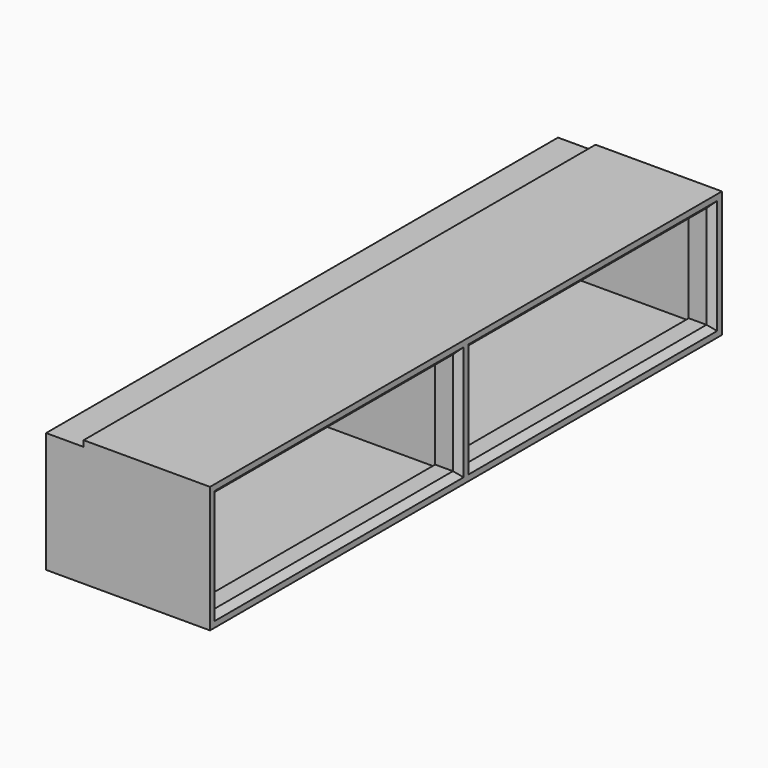
from build123d import *

# Parameters (mm, degrees)
F0_W     = 2057.4
F0_H     = 406.4
F0_W_2   = 1000.125
F0_H_2   = 368.3
F1_DEPTH = 508
F2_W     = 101.6
F2_H     = 19.05
F3_DEPTH = 2057.401
F4_W     = 2057.4
F4_H     = 387.35
F5_DEPTH = 19.05
F6_W     = 152.4
F6_H     = 1009.65
F6_H_2   = 1000.125
F7_DEPTH = 19.05
F8_W     = 1000.125
F8_H     = 368.3
F8_W_2   = 962.025
F8_H_2   = 330.2
F9_DEPTH = 76.2
F10_SIZE = 19.05


with BuildPart() as f1:
    # F0 (on Right) → F1 (new body)
    with BuildSketch(Plane.YZ):
        Rectangle(F0_W, F0_H)
        with Locations((-509.5875, 0)):
            Rectangle(F0_W_2, F0_H_2, mode=Mode.SUBTRACT)
        with Locations((509.5875, 0)):
            Rectangle(F0_W_2, F0_H_2, mode=Mode.SUBTRACT)
    extrude(amount=-F1_DEPTH)

    # F2 (on face) → F3 (cut, through all)
    with BuildSketch(Plane.XZ.offset(1028.7)):
        with Locations((-457.2, 193.675)):
            Rectangle(F2_W, F2_H)
    extrude(amount=-F3_DEPTH, mode=Mode.SUBTRACT)

    # F4 (on face) → F5 (join)
    with BuildSketch(Plane(origin=(-508, 0, 0), x_dir=(0, -1, 0), z_dir=(-1, 0, 0))):
        with Locations((0, -9.525)):
            Rectangle(F4_W, F4_H)
    extrude(amount=F5_DEPTH)

    # F6 (on face) → F7 (join)
    with BuildSketch(Plane(origin=(0, 0, 184.15), x_dir=(1, 0, 0), z_dir=(0, 0, -1))):
        with Locations((-431.8, -504.825)):
            Rectangle(F6_W, F6_H)
        with Locations((-431.8, 509.5875)):
            Rectangle(F6_W, F6_H_2)
    extrude(amount=F7_DEPTH)

    # F8 (on face) → F9 (join)
    with BuildSketch(Plane.YZ):
        with Locations((-509.5875, 0)):
            Rectangle(F8_W, F8_H)
        with Locations((-509.5875, 0)):
            Rectangle(F8_W_2, F8_H_2, mode=Mode.SUBTRACT)
        with Locations((509.5875, 0)):
            Rectangle(F8_W, F8_H)
        with Locations((509.5875, 0)):
            Rectangle(F8_W_2, F8_H_2, mode=Mode.SUBTRACT)
    extrude(amount=-F9_DEPTH)

    # F10
    f10_edges = [f1.edges().sort_by_distance(p)[0] for p in [
        (0, -509.5875, 165.1),
        (0, -990.6, 0),
        (0, -509.5875, -165.1),
        (0, -28.575, 0),
        (0, 509.5875, -165.1),
        (0, 28.575, 0),
        (0, 509.5875, 165.1),
        (0, 990.6, 0),
    ]]
    chamfer(f10_edges, length=F10_SIZE)


solid = f1.part
